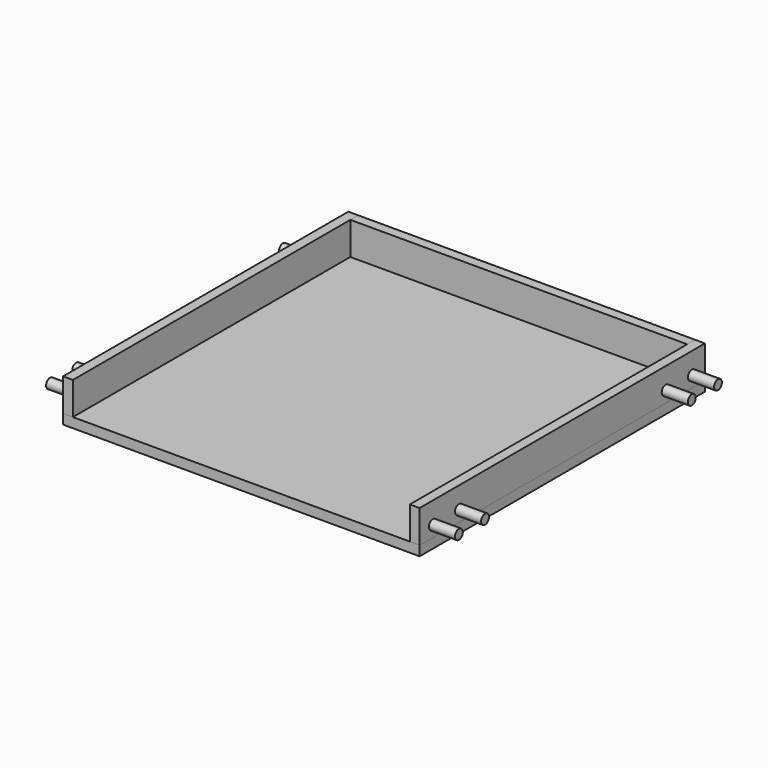
from build123d import *

# Parameters (mm, degrees)
BOX_W             = 109
BOX_H             = 109
BOX_DEPTH         = 3
BOX002_W          = 3
BOX002_H          = 109
BOX002_DEPTH      = 10
BOX003_W          = 103
BOX003_H          = 3
BOX003_DEPTH      = 10
CYLINDER_R        = 1.5
CYLINDER_DEPTH    = 10
CYLINDER002_R     = 1.5
CYLINDER002_DEPTH = 10
CYLINDER003_R     = 1.5
CYLINDER003_DEPTH = 10
CYLINDER004_R     = 1.5
CYLINDER004_DEPTH = 10
CYLINDER005_R     = 1.5
CYLINDER005_DEPTH = 10
CYLINDER006_R     = 1.5
CYLINDER006_DEPTH = 10
CYLINDER007_R     = 1.5
CYLINDER007_DEPTH = 10
CYLINDER001_R     = 1.5
CYLINDER001_DEPTH = 10
BOX001_W          = 3
BOX001_H          = 109
BOX001_DEPTH      = 10


with BuildPart() as floor:
    # Box → Box (new body)
    with BuildSketch(Plane.XY):
        with Locations((54.5, 54.5)):
            Rectangle(BOX_W, BOX_H)
    extrude(amount=BOX_DEPTH)


with BuildPart() as obj1:
    # Box002 → Box002 (new body)
    with BuildSketch(Plane(origin=(106, 0, 3), x_dir=(1, 0, 0), z_dir=(0, 0, 1))):
        with Locations((1.5, 54.5)):
            Rectangle(BOX002_W, BOX002_H)
    extrude(amount=BOX002_DEPTH)


with BuildPart() as back:
    # Box003 → Box003 (new body)
    with BuildSketch(Plane(origin=(3, 106, 3), x_dir=(1, 0, 0), z_dir=(0, 0, 1))):
        with Locations((51.5, 1.5)):
            Rectangle(BOX003_W, BOX003_H)
    extrude(amount=BOX003_DEPTH)


with BuildPart() as hole:
    # Cylinder → Cylinder (new body)
    with BuildSketch(Plane(origin=(-8, 5, 6.5), x_dir=(0, 0, -1), z_dir=(1, 0, 0))):
        Circle(CYLINDER_R)
    extrude(amount=CYLINDER_DEPTH)


with BuildPart() as hole002:
    # Cylinder002 → Cylinder002 (new body)
    with BuildSketch(Plane(origin=(-8, 15, 6.5), x_dir=(0, 0, -1), z_dir=(1, 0, 0))):
        Circle(CYLINDER002_R)
    extrude(amount=CYLINDER002_DEPTH)


with BuildPart() as hole003:
    # Cylinder003 → Cylinder003 (new body)
    with BuildSketch(Plane(origin=(-8, 94, 6.5), x_dir=(0, 0, -1), z_dir=(1, 0, 0))):
        Circle(CYLINDER003_R)
    extrude(amount=CYLINDER003_DEPTH)


with BuildPart() as hole004:
    # Cylinder004 → Cylinder004 (new body)
    with BuildSketch(Plane(origin=(107, 104, 6.5), x_dir=(0, 0, -1), z_dir=(1, 0, 0))):
        Circle(CYLINDER004_R)
    extrude(amount=CYLINDER004_DEPTH)


with BuildPart() as hole005:
    # Cylinder005 → Cylinder005 (new body)
    with BuildSketch(Plane(origin=(107, 94, 6.5), x_dir=(0, 0, -1), z_dir=(1, 0, 0))):
        Circle(CYLINDER005_R)
    extrude(amount=CYLINDER005_DEPTH)


with BuildPart() as hole006:
    # Cylinder006 → Cylinder006 (new body)
    with BuildSketch(Plane(origin=(107, 5, 6.5), x_dir=(0, 0, -1), z_dir=(1, 0, 0))):
        Circle(CYLINDER006_R)
    extrude(amount=CYLINDER006_DEPTH)


with BuildPart() as hole007:
    # Cylinder007 → Cylinder007 (new body)
    with BuildSketch(Plane(origin=(107, 15, 6.5), x_dir=(0, 0, -1), z_dir=(1, 0, 0))):
        Circle(CYLINDER007_R)
    extrude(amount=CYLINDER007_DEPTH)


with BuildPart() as hole001:
    # Cylinder001 → Cylinder001 (new body)
    with BuildSketch(Plane(origin=(-8, 104, 6.5), x_dir=(0, 0, -1), z_dir=(1, 0, 0))):
        Circle(CYLINDER001_R)
    extrude(amount=CYLINDER001_DEPTH)


with BuildPart() as cut:
    # Box001 → Box001 (new body)
    with BuildSketch(Plane.XY.offset(3)):
        with Locations((1.5, 54.5)):
            Rectangle(BOX001_W, BOX001_H)
    extrude(amount=BOX001_DEPTH)

    # Cut: cut Hole001
    add(hole001.part, mode=Mode.SUBTRACT)


solid = Compound([floor.part, obj1.part, back.part, hole.part, hole002.part, hole003.part, hole004.part, hole005.part, hole006.part, hole007.part, cut.part])
